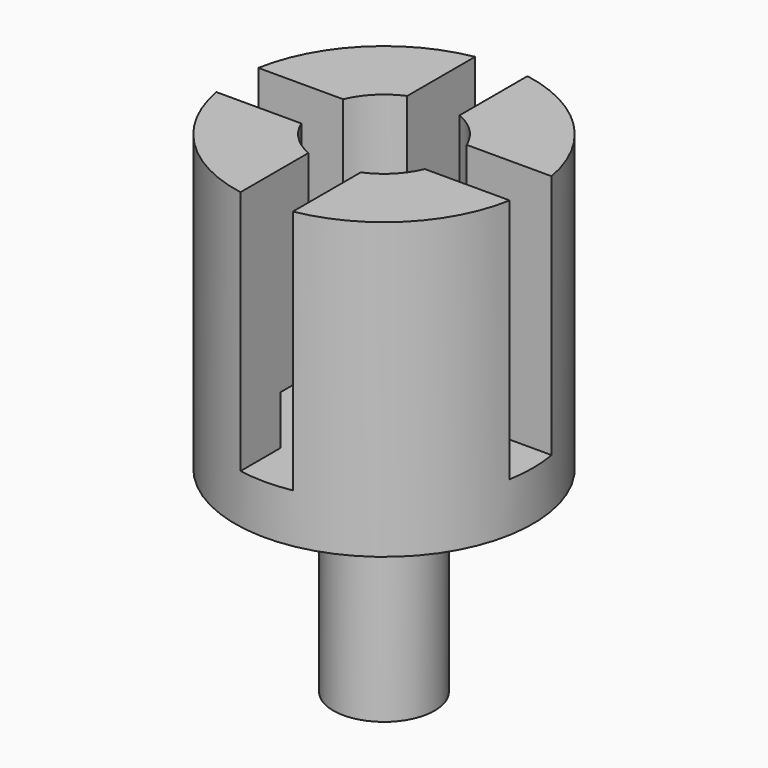
from build123d import *

# Parameters (mm, degrees)
F2_W     = 3.2
F2_H     = 7
F2_W_2   = 7
F2_H_2   = 3.2
F3_DEPTH = 15


with BuildPart() as f1:
    # F0 (on Front) → F1 (revolve)
    with BuildSketch(Plane.XZ):
        Polygon((-3.1, 0), (0, 0), (0, 15), (-6.1, 15), (-6.1, 18), (-4.1, 18), (-4.1, 30), (-9.1, 30), (-9.1, 12), (-3.1, 12), align=None)
    revolve(axis=Axis((0, 0, 7.5), (0, 0, -1)))

    # F2 (on face) → F3 (cut)
    with BuildSketch(Plane.XY.offset(30)):
        with Locations((0, 6.672472)):
            Rectangle(F2_W, F2_H)
        with Locations((-6.672472, 0)):
            Rectangle(F2_W_2, F2_H_2)
        with Locations((0, -6.672472)):
            Rectangle(F2_W, F2_H)
        with Locations((6.672472, 0)):
            Rectangle(F2_W_2, F2_H_2)
    extrude(amount=-F3_DEPTH, mode=Mode.SUBTRACT)


solid = f1.part
